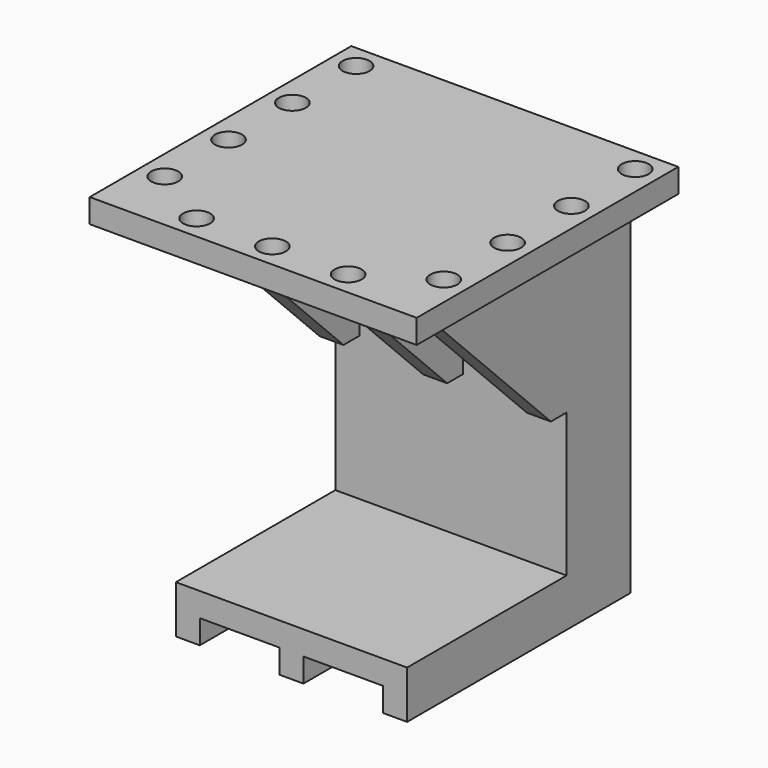
from build123d import *

# Parameters (mm, degrees)
CYLINDER010_R     = 1.7
CYLINDER010_DEPTH = 10
CYLINDER009_R     = 1.7
CYLINDER009_DEPTH = 10
CYLINDER008_R     = 1.7
CYLINDER008_DEPTH = 10
CYLINDER007_R     = 1.7
CYLINDER007_DEPTH = 10
CYLINDER006_R     = 1.7
CYLINDER006_DEPTH = 10
CYLINDER005_R     = 1.7
CYLINDER005_DEPTH = 10
CYLINDER004_R     = 1.7
CYLINDER004_DEPTH = 10
CYLINDER003_R     = 1.7
CYLINDER003_DEPTH = 10
CYLINDER002_R     = 1.7
CYLINDER002_DEPTH = 10
CYLINDER001_R     = 1.7
CYLINDER001_DEPTH = 10
CYLINDER_R        = 1.7
CYLINDER_DEPTH    = 10
BOX007_W          = 41
BOX007_H          = 41
BOX007_DEPTH      = 3
BOX006_W          = 10
BOX006_H          = 25
BOX006_DEPTH      = 22
BOX005_W          = 10
BOX005_H          = 25
BOX005_DEPTH      = 22
BOX004_W          = 29
BOX004_H          = 23
BOX004_DEPTH      = 34
BOX004_ROLL_ANGLE = 45
BOX001_W          = 29
BOX001_H          = 25
BOX001_DEPTH      = 18
BOX003_W          = 10
BOX003_H          = 40
BOX003_DEPTH      = 3
BOX002_W          = 10
BOX002_H          = 40
BOX002_DEPTH      = 3
BOX_W             = 29
BOX_H             = 35
BOX_DEPTH         = 49


with BuildPart() as cylinder010:
    # Cylinder010 → Cylinder010 (new body)
    with BuildSketch(Plane(origin=(32, 2, 41), x_dir=(1, 0, 0), z_dir=(0, 0, 1))):
        Circle(CYLINDER010_R)
    extrude(amount=CYLINDER010_DEPTH)


with BuildPart() as cylinder009:
    # Cylinder009 → Cylinder009 (new body)
    with BuildSketch(Plane(origin=(32, 12, 41), x_dir=(1, 0, 0), z_dir=(0, 0, 1))):
        Circle(CYLINDER009_R)
    extrude(amount=CYLINDER009_DEPTH)


with BuildPart() as cylinder008:
    # Cylinder008 → Cylinder008 (new body)
    with BuildSketch(Plane(origin=(32, 22, 41), x_dir=(1, 0, 0), z_dir=(0, 0, 1))):
        Circle(CYLINDER008_R)
    extrude(amount=CYLINDER008_DEPTH)


with BuildPart() as cylinder007:
    # Cylinder007 → Cylinder007 (new body)
    with BuildSketch(Plane(origin=(32, 32, 41), x_dir=(1, 0, 0), z_dir=(0, 0, 1))):
        Circle(CYLINDER007_R)
    extrude(amount=CYLINDER007_DEPTH)


with BuildPart() as cylinder006:
    # Cylinder006 → Cylinder006 (new body)
    with BuildSketch(Plane(origin=(-3, 2, 41), x_dir=(1, 0, 0), z_dir=(0, 0, 1))):
        Circle(CYLINDER006_R)
    extrude(amount=CYLINDER006_DEPTH)


with BuildPart() as cylinder005:
    # Cylinder005 → Cylinder005 (new body)
    with BuildSketch(Plane(origin=(-3, 12, 41), x_dir=(1, 0, 0), z_dir=(0, 0, 1))):
        Circle(CYLINDER005_R)
    extrude(amount=CYLINDER005_DEPTH)


with BuildPart() as cylinder004:
    # Cylinder004 → Cylinder004 (new body)
    with BuildSketch(Plane(origin=(-3, 22, 41), x_dir=(1, 0, 0), z_dir=(0, 0, 1))):
        Circle(CYLINDER004_R)
    extrude(amount=CYLINDER004_DEPTH)


with BuildPart() as cylinder003:
    # Cylinder003 → Cylinder003 (new body)
    with BuildSketch(Plane(origin=(-3, 32, 41), x_dir=(1, 0, 0), z_dir=(0, 0, 1))):
        Circle(CYLINDER003_R)
    extrude(amount=CYLINDER003_DEPTH)


with BuildPart() as cylinder002:
    # Cylinder002 → Cylinder002 (new body)
    with BuildSketch(Plane(origin=(24, -3, 41), x_dir=(1, 0, 0), z_dir=(0, 0, 1))):
        Circle(CYLINDER002_R)
    extrude(amount=CYLINDER002_DEPTH)


with BuildPart() as cylinder001:
    # Cylinder001 → Cylinder001 (new body)
    with BuildSketch(Plane(origin=(5, -3, 41), x_dir=(1, 0, 0), z_dir=(0, 0, 1))):
        Circle(CYLINDER001_R)
    extrude(amount=CYLINDER001_DEPTH)


with BuildPart() as cylinder:
    # Cylinder → Cylinder (new body)
    with BuildSketch(Plane(origin=(14.5, -3, 41), x_dir=(1, 0, 0), z_dir=(0, 0, 1))):
        Circle(CYLINDER_R)
    extrude(amount=CYLINDER_DEPTH)


with BuildPart() as cut016:
    # Box007 → Box007 (new body)
    with BuildSketch(Plane(origin=(-6, -6, 46), x_dir=(1, 0, 0), z_dir=(0, 0, 1))):
        with Locations((20.5, 20.5)):
            Rectangle(BOX007_W, BOX007_H)
    extrude(amount=BOX007_DEPTH)

    # Cut006: cut Cylinder
    add(cylinder.part, mode=Mode.SUBTRACT)

    # Cut007: cut Cylinder001
    add(cylinder001.part, mode=Mode.SUBTRACT)

    # Cut008: cut Cylinder002
    add(cylinder002.part, mode=Mode.SUBTRACT)

    # Cut009: cut Cylinder003
    add(cylinder003.part, mode=Mode.SUBTRACT)

    # Cut010: cut Cylinder004
    add(cylinder004.part, mode=Mode.SUBTRACT)

    # Cut011: cut Cylinder005
    add(cylinder005.part, mode=Mode.SUBTRACT)

    # Cut012: cut Cylinder006
    add(cylinder006.part, mode=Mode.SUBTRACT)

    # Cut013: cut Cylinder007
    add(cylinder007.part, mode=Mode.SUBTRACT)

    # Cut014: cut Cylinder008
    add(cylinder008.part, mode=Mode.SUBTRACT)

    # Cut015: cut Cylinder009
    add(cylinder009.part, mode=Mode.SUBTRACT)

    # Cut016: cut Cylinder010
    add(cylinder010.part, mode=Mode.SUBTRACT)


with BuildPart() as cube006:
    # Box006 → Box006 (new body)
    with BuildSketch(Plane(origin=(16, 0, 24), x_dir=(1, 0, 0), z_dir=(0, 0, 1))):
        with Locations((5, 12.5)):
            Rectangle(BOX006_W, BOX006_H)
    extrude(amount=BOX006_DEPTH)


with BuildPart() as cube005:
    # Box005 → Box005 (new body)
    with BuildSketch(Plane(origin=(3, 0, 24), x_dir=(1, 0, 0), z_dir=(0, 0, 1))):
        with Locations((5, 12.5)):
            Rectangle(BOX005_W, BOX005_H)
    extrude(amount=BOX005_DEPTH)


with BuildPart() as cube004:
    # Box004 → Box004 (new body)
    with BuildSketch(Plane.XY):
        with Locations((14.5, 11.5)):
            Rectangle(BOX004_W, BOX004_H)
    extrude(amount=BOX004_DEPTH)


with BuildPart() as cube004_1:
    # Box004 roll: moved
    add(cube004.part.rotate(Axis((0, 0, 0), (1, 0, 0)), BOX004_ROLL_ANGLE))


with BuildPart() as cube004_2:
    # Box004 placement: moved
    add(cube004_1.part.moved(Location((0, 7, 7))))


with BuildPart() as cube001:
    # Box001 → Box001 (new body)
    with BuildSketch(Plane.XY.offset(6)):
        with Locations((14.5, 12.5)):
            Rectangle(BOX001_W, BOX001_H)
    extrude(amount=BOX001_DEPTH)


with BuildPart() as cube003:
    # Box003 → Box003 (new body)
    with BuildSketch(Plane(origin=(16, 0, 0), x_dir=(1, 0, 0), z_dir=(0, 0, 1))):
        with Locations((5, 20)):
            Rectangle(BOX003_W, BOX003_H)
    extrude(amount=BOX003_DEPTH)


with BuildPart() as cube002:
    # Box002 → Box002 (new body)
    with BuildSketch(Plane(origin=(3, 0, 0), x_dir=(1, 0, 0), z_dir=(0, 0, 1))):
        with Locations((5, 20)):
            Rectangle(BOX002_W, BOX002_H)
    extrude(amount=BOX002_DEPTH)


with BuildPart() as fusion:
    # Box → Box (new body)
    with BuildSketch(Plane.XY):
        with Locations((14.5, 17.5)):
            Rectangle(BOX_W, BOX_H)
    extrude(amount=BOX_DEPTH)

    # Cut: cut Cube002
    add(cube002.part, mode=Mode.SUBTRACT)

    # Cut001: cut Cube003
    add(cube003.part, mode=Mode.SUBTRACT)

    # Cut002: cut Cube001
    add(cube001.part, mode=Mode.SUBTRACT)

    # Cut003: cut Cube004
    add(cube004_2.part, mode=Mode.SUBTRACT)

    # Cut004: cut Cube005
    add(cube005.part, mode=Mode.SUBTRACT)

    # Cut005: cut Cube006
    add(cube006.part, mode=Mode.SUBTRACT)

    # Fusion: union Cut016
    add(cut016.part)


solid = fusion.part
